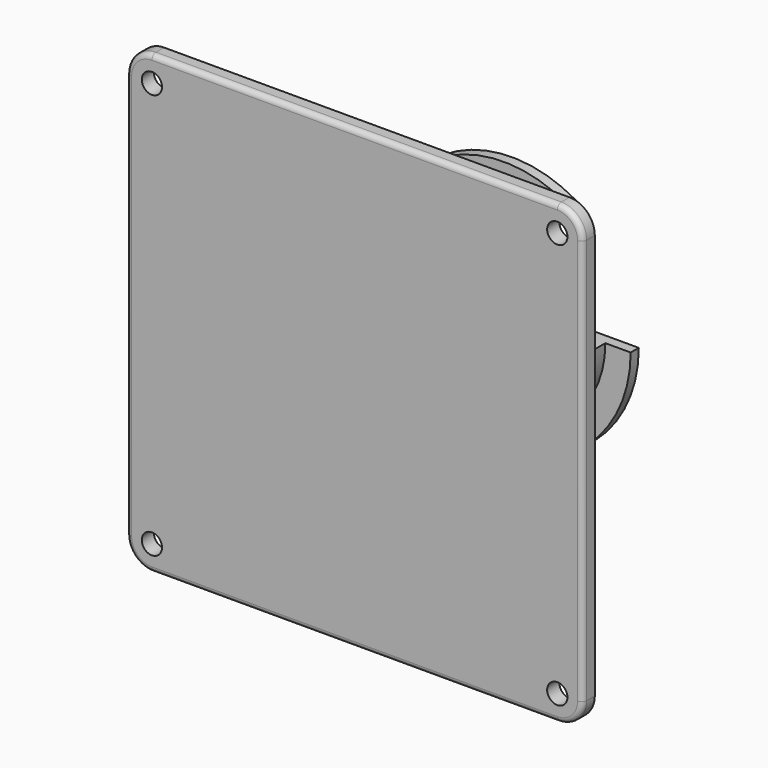
from build123d import *

# Parameters (mm, degrees)
F1_DEPTH = 3
F2_R     = 1
F3_D     = 4
F5_ANGLE = 300
F7_W     = 4
F7_H     = 7
F8_DEPTH = 10
F9_COUNT = 6


with BuildPart() as f1:
    # F0 (on Front) → F1 (new body)
    with BuildSketch(Plane.XZ):
        with BuildLine():
            Line((42.9805768281, 48.0879917694), (-37.0194231719, 48.0879917694))
            ThreePointArc((-37.0194231719, 48.0879917694), (-40.5549570778, 46.6235256753), (-42.0194231719, 43.0879917694))
            Line((-42.0194231719, 43.0879917694), (-42.0194231719, -36.9120082306))
            ThreePointArc((-42.0194231719, -36.9120082306), (-40.5549570778, -40.4475421365), (-37.0194231719, -41.9120082306))
            Line((-37.0194231719, -41.9120082306), (42.9805768281, -41.9120082306))
            ThreePointArc((42.9805768281, -41.9120082306), (46.5161107341, -40.4475421365), (47.9805768281, -36.9120082306))
            Line((47.9805768281, -36.9120082306), (47.9805768281, 43.0879917694))
            ThreePointArc((47.9805768281, 43.0879917694), (46.5161107341, 46.6235256753), (42.9805768281, 48.0879917694))
        make_face()
    extrude(amount=F1_DEPTH)

    # F2
    f2_edges = [f1.edges().sort_by_distance(p)[0] for p in [
        (2.980577, -3, 48.087992),
        (-40.554957, -3, 46.623526),
        (-42.019423, -3, 3.087992),
        (-40.554957, -3, -40.447542),
        (2.980577, -3, -41.912008),
        (46.516111, -3, -40.447542),
        (47.980577, -3, 3.087992),
        (46.516111, -3, 46.623526),
    ]]
    fillet(f2_edges, radius=F2_R)

    # F3 (through all)
    with Locations(Plane(origin=(0, 0, 0), x_dir=(1, 0, 0), z_dir=(0, 1, 0))):
        with Locations((42.9805768281, -43.0879917694), (42.9805768281, 36.9120082306), (-37.0194231719, 36.9120082306), (-37.0194231719, -43.0879917694)):
            Hole(F3_D / 2)


with BuildPart() as f5:
    # F4 (on Top) → F5 (revolve)
    with BuildSketch(Plane.XY):
        Polygon((25, 39.5770294305), (0, 39.5770294305), (0, 37.5770294305), (18, 37.5770294305), (18, 27.5770294305), (20, 27.5770294305), (20, 30.5770294305), (20, 37.5770294305), (25, 37.5770294305), align=None)
        with BuildLine():
            ThreePointArc((20, 27.5770294305), (21.5, 29.0770294305), (20, 30.5770294305))
            Line((20, 30.5770294305), (20, 27.5770294305))
        make_face()
    revolve(axis=Axis((0, 38.5770294305, 0), (0, 1, 0)), revolution_arc=F5_ANGLE)


with BuildPart() as f8:
    # F7 (on offset) → F8 (new body)
    with BuildSketch(Plane.XY.offset(25)):
        with Locations((0, 31.0770294305)):
            Rectangle(F7_W, F7_H)
    extrude(amount=-F8_DEPTH)


with BuildPart() as f9_1:
    # F9: instance of F8
    add(f8.part.rotate(Axis((0, 30.5770294305, 0), (0, 1, 0)), 1 * 360 / F9_COUNT))


with BuildPart() as f9_2:
    # F9: instance of F8
    add(f8.part.rotate(Axis((0, 30.5770294305, 0), (0, 1, 0)), 2 * 360 / F9_COUNT))


with BuildPart() as f9_3:
    # F9: instance of F8
    add(f8.part.rotate(Axis((0, 30.5770294305, 0), (0, 1, 0)), 3 * 360 / F9_COUNT))


with BuildPart() as f9_4:
    # F9: instance of F8
    add(f8.part.rotate(Axis((0, 30.5770294305, 0), (0, 1, 0)), 4 * 360 / F9_COUNT))


with BuildPart() as f9_5:
    # F9: instance of F8
    add(f8.part.rotate(Axis((0, 30.5770294305, 0), (0, 1, 0)), 5 * 360 / F9_COUNT))


with BuildPart() as f5_1:
    add(f5.part)

    # F10: cut F9_2, F9_1, F8, F9_5, F9_4, F9_3
    add(f9_2.part, mode=Mode.SUBTRACT)
    add(f9_1.part, mode=Mode.SUBTRACT)
    add(f8.part, mode=Mode.SUBTRACT)
    add(f9_5.part, mode=Mode.SUBTRACT)
    add(f9_4.part, mode=Mode.SUBTRACT)
    add(f9_3.part, mode=Mode.SUBTRACT)


solid = Compound([f1.part, f5_1.part])
